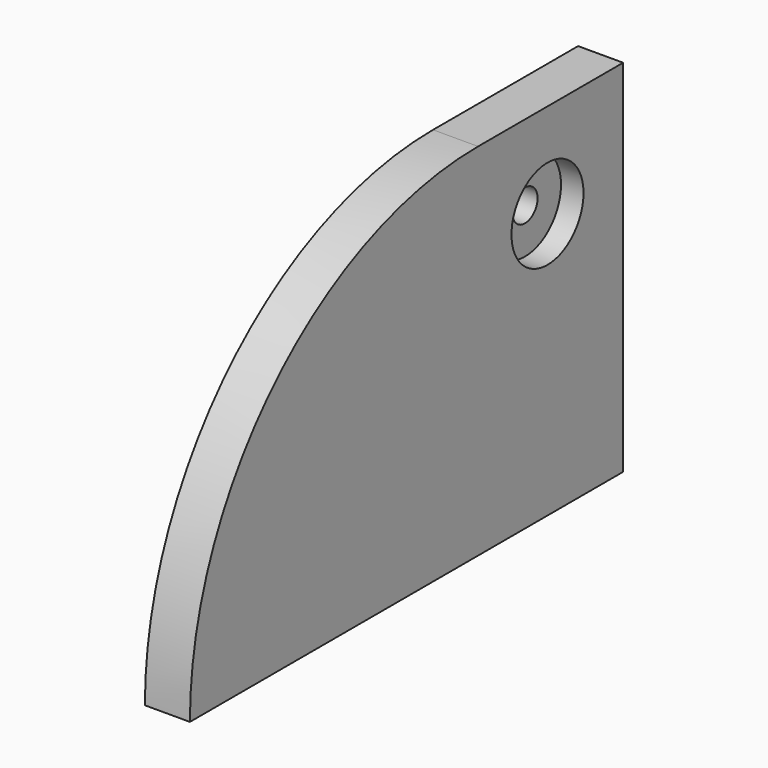
from build123d import *

# Parameters (mm, degrees)
PAD_DEPTH       = 5
SKETCH001_R     = 5
POCKET_DEPTH    = 2.5
SKETCH002_R     = 1.75
POCKET001_DEPTH = 5


with BuildPart() as part:
    # Sketch (on YZ_Plane of Origin) → Pad (new body)
    with BuildSketch(Plane.YZ):
        with BuildLine():
            Line((100, 15), (39.86189, 15))
            ThreePointArc((79.86189, 55), (51.577619, 43.284271), (39.86189, 15))
            Line((79.86189, 55), (100, 55))
            Line((100, 55), (100, 15))
        make_face()
    extrude(amount=PAD_DEPTH)

    # Sketch001 (on Face6 of Pad) → Pocket (cut)
    with BuildSketch(Plane.YZ.offset(5)):
        with Locations((89.5, 44.5)):
            Circle(SKETCH001_R)
    extrude(amount=-POCKET_DEPTH, mode=Mode.SUBTRACT)

    # Sketch002 (on Face8 of Pocket) → Pocket001 (cut)
    with BuildSketch(Plane.YZ.offset(2.5)):
        with Locations((89.5, 44.5)):
            Circle(SKETCH002_R)
    extrude(amount=-POCKET001_DEPTH, mode=Mode.SUBTRACT)


solid = part.part
